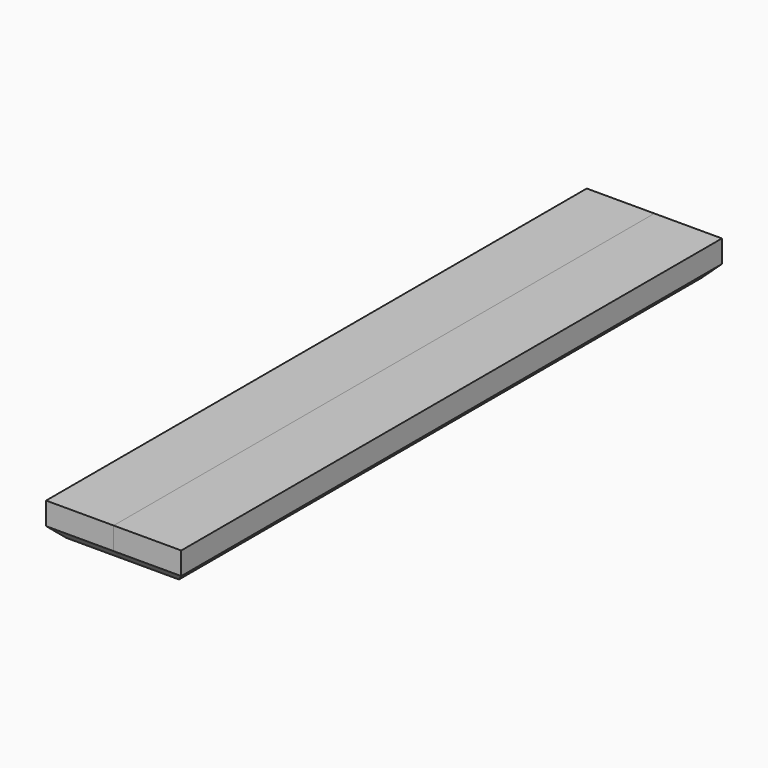
from build123d import *

# Parameters (mm, degrees)
F0_W      = 38.1
F0_H      = 19.05
F1_DEPTH  = 381
F2_W      = 38.1
F2_H      = 381
F3_DEPTH  = 19.05
F4_SIZE   = 6.35
F4_2_SIZE = 6.35


with BuildPart() as f1:
    # F0 (on Front) → F1 (new body)
    with BuildSketch(Plane.XZ):
        with Locations((19.05, 9.525)):
            Rectangle(F0_W, F0_H)
    extrude(amount=F1_DEPTH)

    # F4
    f4_edges = [f1.edges().sort_by_distance(p)[0] for p in [
        (0, -190.5, 0),
        (19.05, -381, 0),
        (19.05, 0, 0),
    ]]
    chamfer(f4_edges, length=F4_SIZE)


with BuildPart() as f3:
    # F2 (on face) → F3 (new body)
    with BuildSketch(Plane.XY.offset(19.05)):
        with Locations((57.15, -190.5)):
            Rectangle(F2_W, F2_H)
    extrude(amount=-F3_DEPTH)

    # F4#2
    f4_2_edges = [f3.edges().sort_by_distance(p)[0] for p in [
        (76.2, -190.5, 0),
        (57.15, -381, 0),
        (57.15, 0, 0),
    ]]
    chamfer(f4_2_edges, length=F4_2_SIZE)


solid = Compound([f1.part, f3.part])
